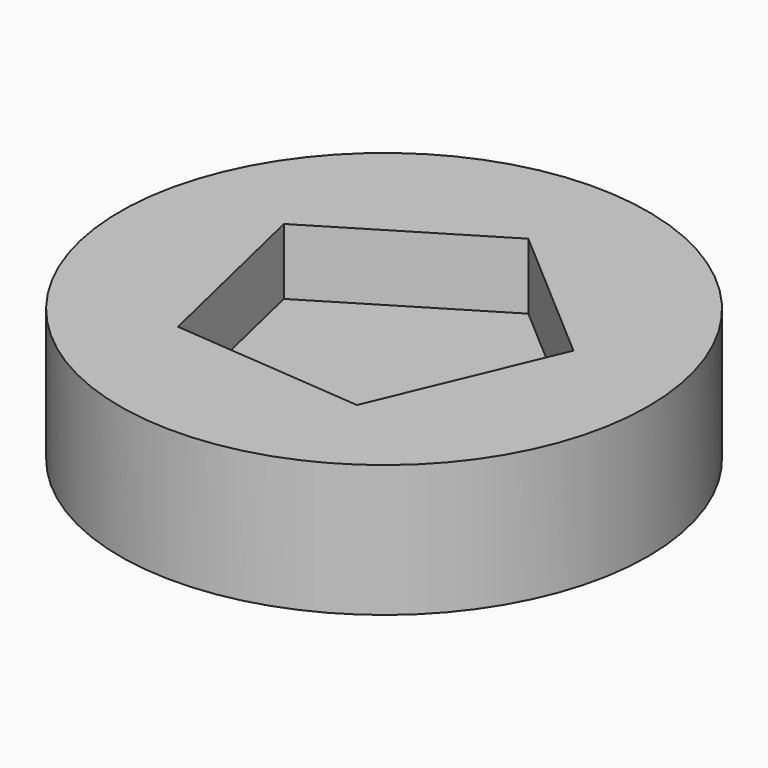
from build123d import *

# Parameters (mm, degrees)
F0_R     = 50.8
F1_DEPTH = 25.4
F3_DEPTH = 12.7


with BuildPart() as f1:
    # F0 (on Top) → F1 (new body)
    with BuildSketch(Plane.XY):
        Circle(F0_R)
    extrude(amount=F1_DEPTH)

    # F2 (on face) → F3 (cut)
    with BuildSketch(Plane.XY.offset(25.4)):
        Polygon((30.682008, 7.203146), (2.630663, 31.406218), (-29.056168, 12.206964), (-20.588363, -23.861899), (16.33186, -26.954429), align=None)
    extrude(amount=-F3_DEPTH, mode=Mode.SUBTRACT)


solid = f1.part
